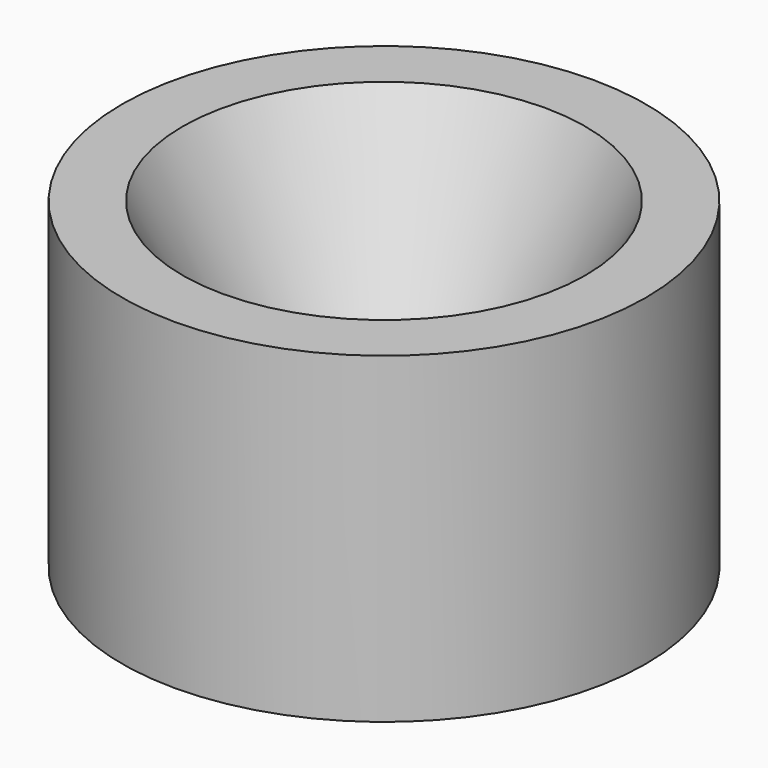
from build123d import *

# Parameters (mm, degrees)
F0_R     = 6.5
F1_DEPTH = 8
F2_R     = 0.75
F3_R     = 5


with BuildPart() as f1:
    # F0 (on Top) → F1 (new body)
    with BuildSketch(Plane.XY):
        Circle(F0_R)
    extrude(amount=F1_DEPTH)

    # F2 (on face) → F4 section 0
    with BuildSketch(Plane(origin=(0, 0, 0), x_dir=(1, 0, 0), z_dir=(0, 0, -1))):
        Circle(F2_R)
    # F3 (on face) → F4 section 1
    with BuildSketch(Plane.XY.offset(8)):
        Circle(F3_R)
    loft(mode=Mode.SUBTRACT)


solid = f1.part
